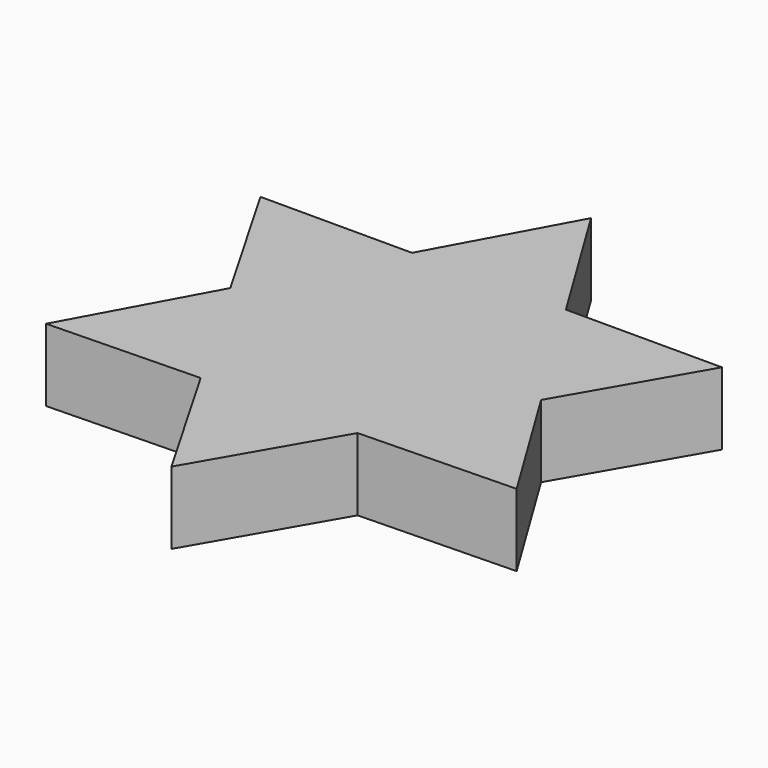
from build123d import *

# Parameters (mm, degrees)
F1_DEPTH = 25.4


with BuildPart() as f1:
    # F0 (on Top) → F1 (new body)
    with BuildSketch(Plane.XY):
        Polygon((-53.5242615514, -0.6677641515), (-27.7371538567, 46.6872522981), (-80.864693046, 46.6872522981), align=None)
        Polygon((26.1838300567, 46.6872522981), (-2.3295022303, 93.3454419237), (-27.7371538567, 46.6872522981), align=None)
        Polygon((80.864693046, 46.6872522981), (26.1838300567, 46.6872522981), (54.3009234514, 0.6774537196), align=None)
        Polygon((82.0042751486, -44.6553128522), (54.3009234514, 0.6774537196), (27.3404314946, -46.0194881465), align=None)
        Polygon((-26.5637695946, -47.3647060176), (-53.5242615514, -0.6677641515), (-79.6747729182, -48.6901290715), align=None)
        Polygon((0, -93.3745045961), (27.3404314946, -46.0194881465), (-26.5637695946, -47.3647060176), align=None)
        Polygon((54.3009234514, 0.6774537196), (26.1838300567, 46.6872522981), (-27.7371538567, 46.6872522981), (-53.5242615514, -0.6677641515), (-26.5637695946, -47.3647060176), (27.3404314946, -46.0194881465), align=None)
    extrude(amount=F1_DEPTH)


solid = f1.part
